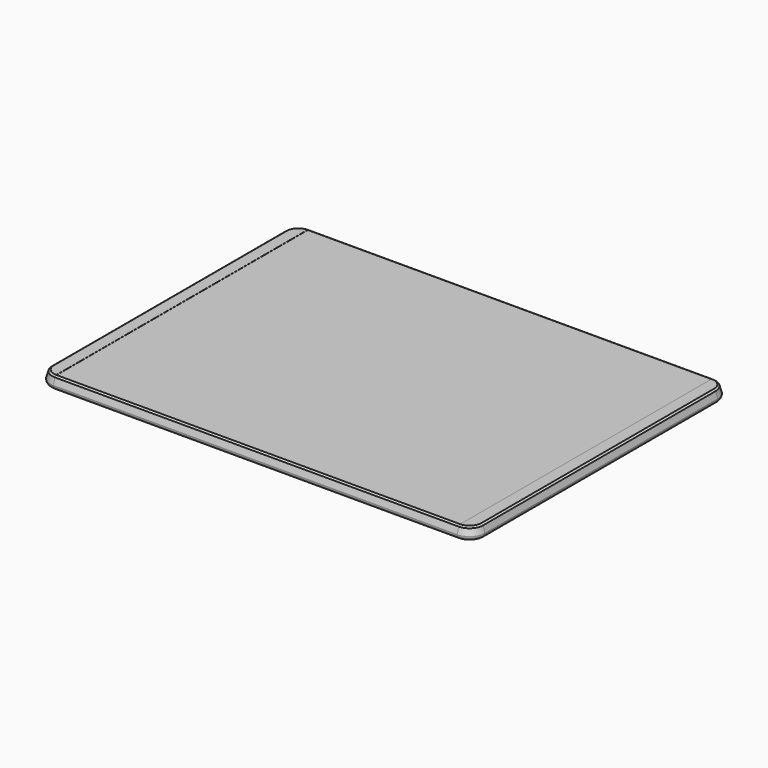
from build123d import *

# Parameters (mm, degrees)
F0_W     = 300
F0_H     = 222
F1_DEPTH = 8.4
F2_R     = 10.6
F3_R     = 3
F4_SIZE2 = 5.3
F4_SIZE  = 1.5
F5_SIZE  = 1
F6_W     = 278.8
F6_H     = 217
F7_DEPTH = 0.1


with BuildPart() as f1:
    # F0 (on Top) → F1 (new body)
    with BuildSketch(Plane.XY):
        Rectangle(F0_W, F0_H)
    extrude(amount=F1_DEPTH)

    # F2
    f2_edges = [f1.edges().sort_by_distance(p)[0] for p in [
        (-150, 111, 4.2),
        (-150, -111, 4.2),
        (150, -111, 4.2),
        (150, 111, 4.2),
    ]]
    fillet(f2_edges, radius=F2_R)

    # F3
    f3_edges = [f1.edges().sort_by_distance(p)[0] for p in [
        (0, 111, 0),
        (146.895332, 107.895332, 0),
        (150, 0, 0),
    ]]
    fillet(f3_edges, radius=F3_R)

    # F4
    f4_edges = [f1.edges().sort_by_distance(p)[0] for p in [
        (-150, 0, 8.4),
        (-146.895332, 107.895332, 8.4),
        (0, 111, 8.4),
    ]]
    f4_side = f1.faces().sort_by_distance((0, 0, 8.4))[0]
    chamfer(f4_edges, length=F4_SIZE, length2=F4_SIZE2, reference=f4_side)

    # F5
    f5_edges = [f1.edges().sort_by_distance(p)[0] for p in [
        (0, 109.5, 8.4),
    ]]
    chamfer(f5_edges, length=F5_SIZE)

    # F6 (on face) → F7 (cut)
    with BuildSketch(Plane.XY.offset(8.4)):
        Rectangle(F6_W, F6_H)
    extrude(amount=-F7_DEPTH, mode=Mode.SUBTRACT)


solid = f1.part
